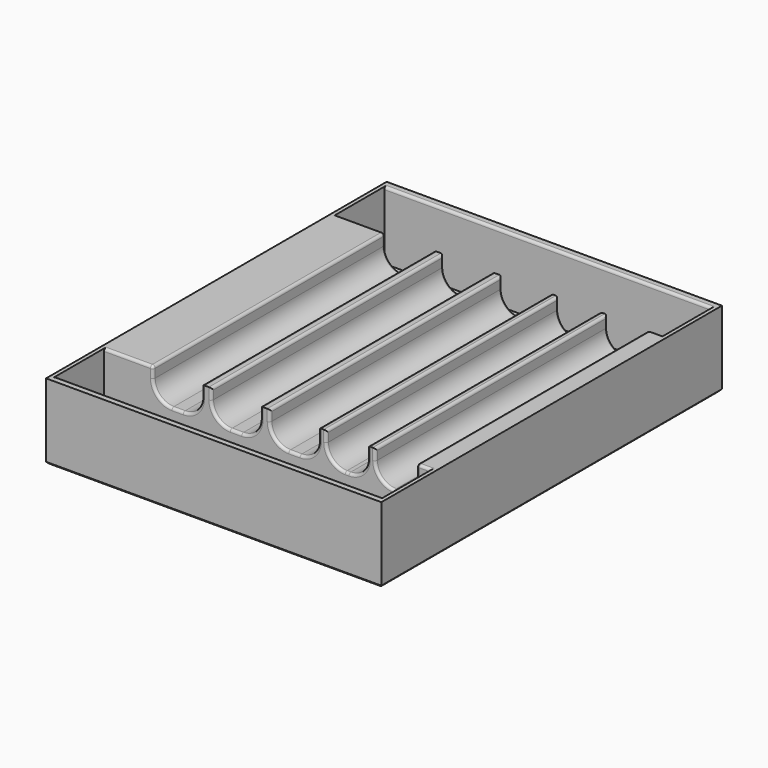
from build123d import *

# Parameters (mm, degrees)
SKETCH_W        = 89
SKETCH_H        = 113
PAD_DEPTH       = 20
SKETCH001_W     = 13
SKETCH001_H     = 77
SKETCH001_W_2   = 11
POCKET_DEPTH    = 8
SKETCH002_W     = 87
SKETCH002_H     = 16
POCKET001_DEPTH = 18
FILLET_R        = 5
FILLET001_R     = 0.7
CHAMFER_SIZE    = 0.5


with BuildPart() as part:
    # Sketch → Pad (new body)
    with BuildSketch(Plane.XY):
        with Locations((44.5, 56.5)):
            Rectangle(SKETCH_W, SKETCH_H)
    extrude(amount=PAD_DEPTH)

    # Sketch001 (on Face6 of Pad) → Pocket (cut)
    with BuildSketch(Plane.XY.offset(20)):
        with Locations((20.5, 56.5)):
            Rectangle(SKETCH001_W, SKETCH001_H)
        with Locations((36, 56.5)):
            Rectangle(SKETCH001_W, SKETCH001_H)
        with Locations((51.5, 56.5)):
            Rectangle(SKETCH001_W, SKETCH001_H)
        with Locations((65.5, 56.5)):
            Rectangle(SKETCH001_W_2, SKETCH001_H)
        with Locations((78.5, 56.5)):
            Rectangle(SKETCH001_W_2, SKETCH001_H)
    extrude(amount=-POCKET_DEPTH, mode=Mode.SUBTRACT)

    # Sketch002 (on Face5 of Pocket) → Pocket001 (cut)
    with BuildSketch(Plane.XY.offset(20)):
        with Locations((44.5, 10)):
            Rectangle(SKETCH002_W, SKETCH002_H)
        with Locations((44.5, 103)):
            Rectangle(SKETCH002_W, SKETCH002_H)
    extrude(amount=-POCKET001_DEPTH, mode=Mode.SUBTRACT)

    # Fillet
    fillet_edges = [part.edges().sort_by_distance(p)[0] for p in [
        (27, 56.5, 12),
        (14, 56.5, 12),
        (29.5, 56.5, 12),
        (45, 56.5, 12),
        (60, 56.5, 12),
        (73, 56.5, 12),
        (42.5, 56.5, 12),
        (58, 56.5, 12),
        (71, 56.5, 12),
        (84, 56.5, 12),
    ]]
    fillet(fillet_edges, radius=FILLET_R)

    # Fillet001
    fillet001_edges = [part.edges().sort_by_distance(p)[0] for p in [
        (14, 56.5, 20),
        (29.5, 56.5, 20),
        (27, 56.5, 20),
        (42.5, 56.5, 20),
        (58, 56.5, 20),
        (60, 56.5, 20),
        (71, 56.5, 20),
        (73, 56.5, 20),
        (84, 56.5, 20),
        (74.464466, 18, 13.464466),
        (61.464466, 18, 13.464466),
        (46.464466, 18, 13.464466),
        (30.964466, 18, 13.464466),
        (15.464466, 18, 13.464466),
        (15.464466, 95, 13.464466),
        (30.964466, 95, 13.464466),
        (45, 56.5, 20),
        (46.464466, 95, 13.464466),
        (61.464466, 95, 13.464466),
        (74.464466, 95, 13.464466),
        (44.5, 2, 20),
        (44.5, 111, 20),
        (7.5, 95, 20),
        (86, 95, 20),
        (86, 18, 20),
        (7.5, 18, 20),
    ]]
    fillet(fillet001_edges, radius=FILLET001_R)

    # Chamfer
    chamfer_edges = [part.edges().sort_by_distance(p)[0] for p in [
        (44.5, 0, 0),
        (0, 56.5, 0),
        (44.5, 113, 0),
        (89, 56.5, 0),
    ]]
    chamfer(chamfer_edges, length=CHAMFER_SIZE)


solid = part.part
